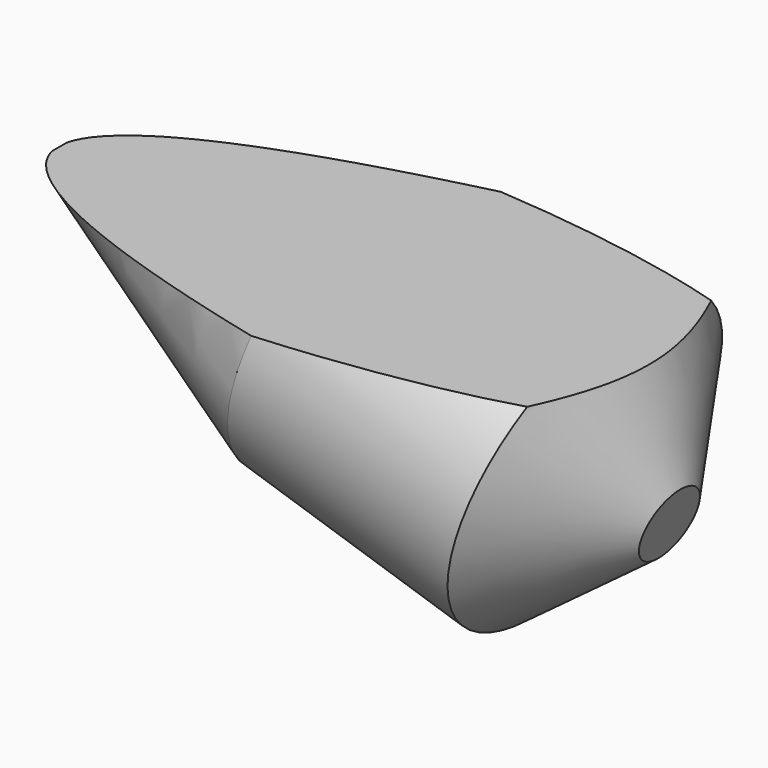
from build123d import *

# Parameters (mm, degrees)
F2_W     = 3977.120765368
F2_H     = 850
F3_DEPTH = 900


with BuildPart() as f1:
    # F0 (on Front) → F1 (revolve)
    with BuildSketch(Plane.XZ):
        Polygon((-1433.7864343938, 1412.1814545405), (-3213.6238220187, 1412.1814545405), (-3321.7797700499, 1079.3116738372), (0, 0), (61.803398875, 190.211303259), (-197.4129632101, 1010.4593618531), align=None)
    revolve(axis=Axis((-1899.8411552849, 0, 617.2958110659), (-0.9510565163, 0, 0.3090169944)))

    # F2 (on Front) → F3 (cut, symmetric)
    with BuildSketch(Plane.XZ):
        with Locations((-1440.2192363951, 1175)):
            Rectangle(F2_W, F2_H)
    extrude(amount=F3_DEPTH, both=True, mode=Mode.SUBTRACT)


solid = f1.part
